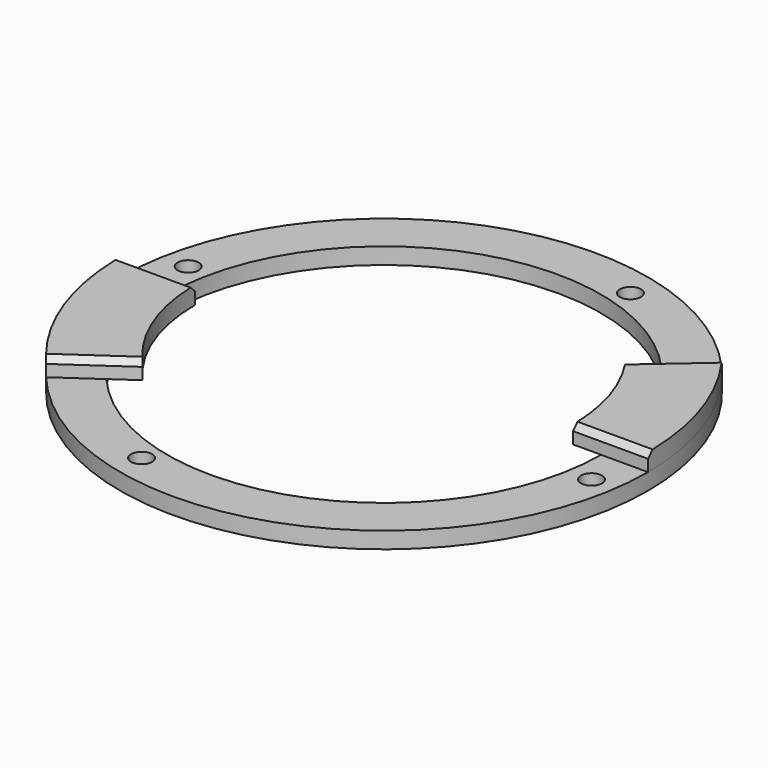
from build123d import *

# Parameters (mm, degrees)
CYLINDER009_R     = 37
CYLINDER009_DEPTH = 2.8
CYLINDER010_R     = 45
CYLINDER010_DEPTH = 2.8
SKETCH005_R       = 1.8
POCKET003_DEPTH   = 5
PAD_DEPTH         = 3
CHAMFER_SIZE      = 1
CHAMFER001_SIZE   = 1
CHAMFER002_SIZE   = 1
CHAMFER003_SIZE   = 1


with BuildPart() as cylinder009:
    # Cylinder009 → Cylinder009 (new body)
    with BuildSketch(Plane.XY.offset(83)):
        Circle(CYLINDER009_R)
    extrude(amount=CYLINDER009_DEPTH)


with BuildPart() as chamfer003:
    # Cylinder010 → Cylinder010 (new body)
    with BuildSketch(Plane.XY.offset(83)):
        Circle(CYLINDER010_R)
    extrude(amount=CYLINDER010_DEPTH)

    # Cut008: cut Cylinder009
    add(cylinder009.part, mode=Mode.SUBTRACT)

    # Sketch005 → Pocket003 (cut)
    with BuildSketch(Plane.XY.offset(85.8)):
        with Locations((10.92856, 38.840008)):
            Circle(SKETCH005_R)
        with Locations((40.444542, -6.343234)):
            Circle(SKETCH005_R)
        with Locations((-10.194257, -38.936714)):
            Circle(SKETCH005_R)
        with Locations((-39.850128, 8.065043)):
            Circle(SKETCH005_R)
    extrude(amount=-POCKET003_DEPTH, mode=Mode.SUBTRACT)

    # Sketch006 → Pad (new body)
    with BuildSketch(Plane.XY.offset(85.8)):
        with BuildLine():
            ThreePointArc((32.2, 0), (30.678353, 9.781545), (26.257228, 18.638615))
            Line((26.257228, 18.638615), (35.943074, 27.075735))
            ThreePointArc((45, 0), (42.675744, 14.275182), (35.943074, 27.075735))
            Line((32.2, 0), (45, 0))
        make_face()
        with BuildLine():
            ThreePointArc((-32.2, 0), (-30.108619, -11.415388), (-24.106144, -21.347923))
            Line((-24.106144, -21.347923), (-34.666195, -28.692419))
            ThreePointArc((-45, 0), (-42.337801, -15.248299), (-34.666195, -28.692419))
            Line((-32.2, 0), (-45, 0))
        make_face()
    extrude(amount=PAD_DEPTH)

    # Chamfer
    chamfer_edges = [chamfer003.edges().sort_by_distance(p)[0] for p in [
        (-38.6, 0, 88.8),
    ]]
    chamfer(chamfer_edges, length=CHAMFER_SIZE)

    # Chamfer001
    chamfer001_edges = [chamfer003.edges().sort_by_distance(p)[0] for p in [
        (-29.38617, -25.020171, 88.8),
    ]]
    chamfer(chamfer001_edges, length=CHAMFER001_SIZE)

    # Chamfer002
    chamfer002_edges = [chamfer003.edges().sort_by_distance(p)[0] for p in [
        (31.100151, 22.857175, 88.8),
    ]]
    chamfer(chamfer002_edges, length=CHAMFER002_SIZE)

    # Chamfer003
    chamfer003_edges = [chamfer003.edges().sort_by_distance(p)[0] for p in [
        (38.6, 0, 88.8),
    ]]
    chamfer(chamfer003_edges, length=CHAMFER003_SIZE)


solid = chamfer003.part
